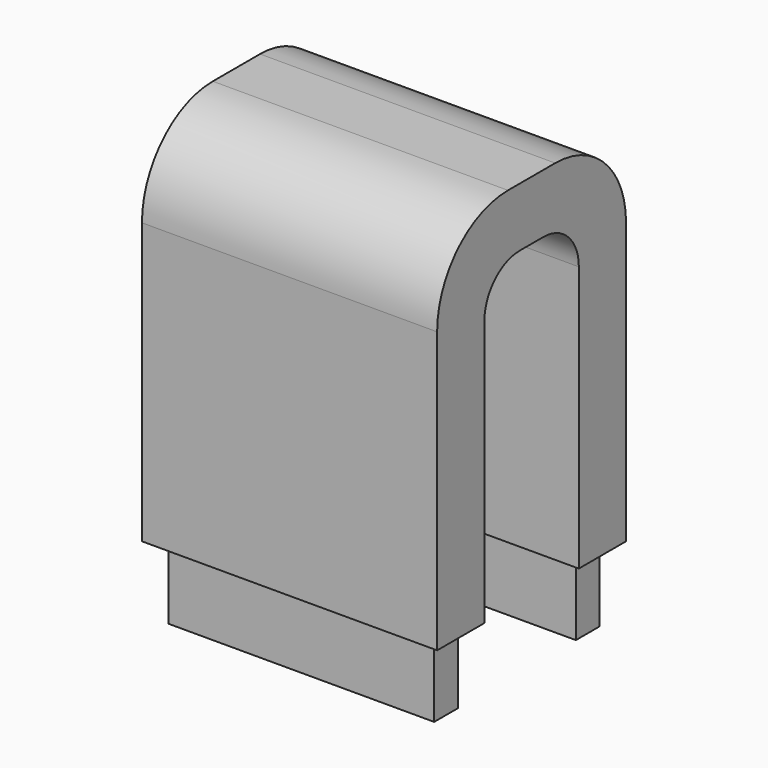
from build123d import *

# Parameters (mm, degrees)
F1_DEPTH = 12.7
F2_W     = 22.86
F2_H     = 2.54
F3_DEPTH = 6.35


with BuildPart() as f1:
    # F0 (on Right) → F1 (new body, symmetric)
    with BuildSketch(Plane.YZ):
        with BuildLine():
            Line((0, 31.75), (0, 26.67))
            Line((0, 26.67), (1.27, 26.67))
            ThreePointArc((1.27, 26.67), (3.964077, 25.554077), (5.08, 22.86))
            Line((5.08, 22.86), (5.08, 0))
            Line((5.08, 0), (10.16, 0))
            Line((10.16, 0), (10.16, 24.13))
            ThreePointArc((10.16, 24.13), (7.928154, 29.518154), (2.54, 31.75))
            Line((2.54, 31.75), (0, 31.75))
        make_face()
        with BuildLine():
            Line((-1.27, 26.67), (0, 26.67))
            Line((0, 26.67), (0, 31.75))
            Line((0, 31.75), (-2.54, 31.75))
            ThreePointArc((-2.54, 31.75), (-7.928154, 29.518154), (-10.16, 24.13))
            Line((-10.16, 24.13), (-10.16, 0))
            Line((-10.16, 0), (-5.08, 0))
            Line((-5.08, 0), (-5.08, 22.86))
            ThreePointArc((-5.08, 22.86), (-3.964077, 25.554077), (-1.27, 26.67))
        make_face()
    extrude(amount=F1_DEPTH, both=True)

    # F2 (on face) → F3 (join)
    with BuildSketch(Plane(origin=(0, 0, 0), x_dir=(1, 0, 0), z_dir=(0, 0, -1))):
        with Locations((0, 7.62)):
            Rectangle(F2_W, F2_H)
        with Locations((0, -7.62)):
            Rectangle(F2_W, F2_H)
    extrude(amount=F3_DEPTH)


solid = f1.part
